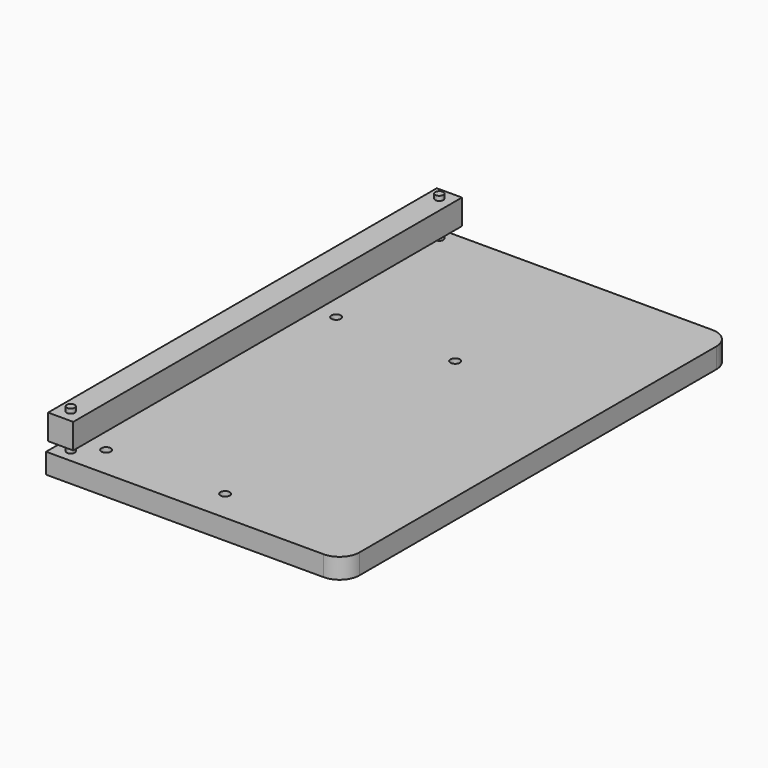
from build123d import *

# Parameters (mm, degrees)
F0_W     = 300
F0_H     = 490
F1_DEPTH = 20.4
F2_R     = 4.75
F2_R_2   = 2.1
F3_DEPTH = 5
F4_DEPTH = 25
F5_R     = 20
F6_R     = 4
F7_DEPTH = 40
F8_W     = 25.4
F8_H     = 25.4
F9_DEPTH = 490


with BuildPart() as f1:
    # F0 (on Top) → F1 (new body)
    with BuildSketch(Plane.XY):
        with Locations((150, 245)):
            Rectangle(F0_W, F0_H)
    extrude(amount=F1_DEPTH)

    # F2 (on face) → F3 (cut)
    with BuildSketch(Plane.XY.offset(20.4)):
        with Locations((35, 32)):
            Circle(F2_R)
        with Locations((35, 32)):
            Circle(F2_R_2, mode=Mode.SUBTRACT)
        with Locations((155, 32)):
            Circle(F2_R)
        with Locations((155, 32)):
            Circle(F2_R_2, mode=Mode.SUBTRACT)
        with Locations((35, 322)):
            Circle(F2_R)
        with Locations((35, 322)):
            Circle(F2_R_2, mode=Mode.SUBTRACT)
        with Locations((155, 322)):
            Circle(F2_R)
        with Locations((155, 322)):
            Circle(F2_R_2, mode=Mode.SUBTRACT)
    extrude(amount=-F3_DEPTH, mode=Mode.SUBTRACT)

    # F4 (cut): faces of the model
    f4_faces = [f1.faces().sort_by_distance(p)[0] for p in [
        (35, 32, 20.4),
        (155, 32, 20.4),
        (35, 322, 20.4),
        (155, 322, 20.4),
    ]]
    extrude(f4_faces, amount=-F4_DEPTH, mode=Mode.SUBTRACT)

    # F5
    f5_edges = [f1.edges().sort_by_distance(p)[0] for p in [
        (300, 0, 10.2),
        (300, 490, 10.2),
    ]]
    fillet(f5_edges, radius=F5_R)

    # F6 (on face) → F7 (join)
    with BuildSketch(Plane.XY.offset(20.4)):
        with Locations((14.7, 12.7)):
            Circle(F6_R)
        with Locations((14.7, 477.3)):
            Circle(F6_R)
    extrude(amount=F7_DEPTH)


with BuildPart() as f9:
    # F8 (on face) → F9 (new body, through all)
    with BuildSketch(Plane.XZ):
        with Locations((14.7, 43.1)):
            Rectangle(F8_W, F8_H)
    extrude(amount=-F9_DEPTH)


solid = Compound([f1.part, f9.part])
